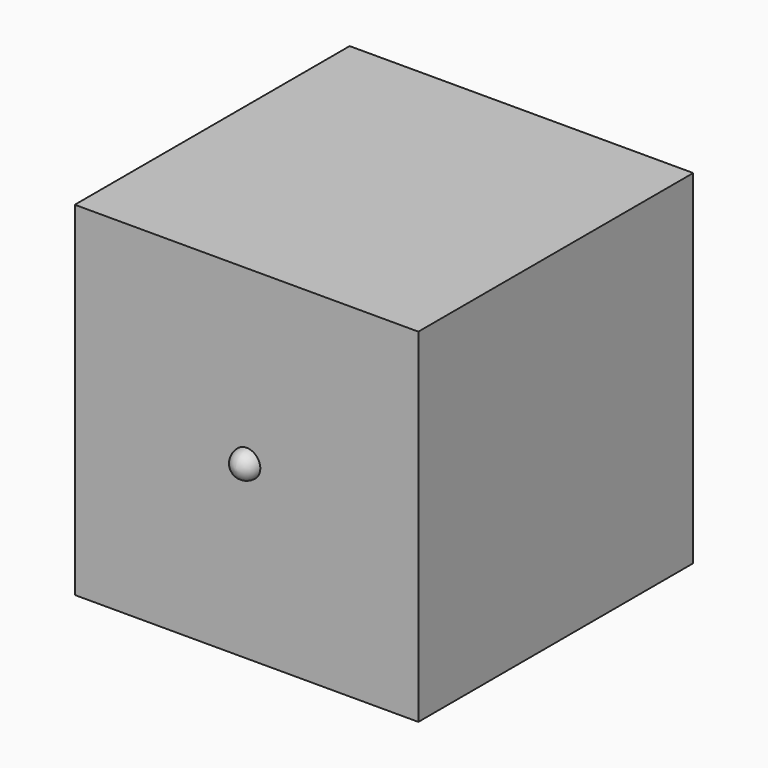
from build123d import *

# Parameters (mm, degrees)
F2_W     = 12.7
F2_H     = 12.7
F2_R     = 0.508
F3_DEPTH = 12.7


with BuildPart() as f1:
    # F0 (on Right) → F1 (revolve)
    with BuildSketch(Plane.YZ):
        with BuildLine():
            Line((-0.508, 0), (0, 0))
            Line((0, 0), (0, 0.508))
            ThreePointArc((0, 0.508), (-0.360654, 0.360654), (-0.508, 0))
        make_face()
    revolve(axis=Axis((0, -0.254, 0), (0, -1, 0)))


with BuildPart() as f3:
    # F2 (on face) → F3 (new body)
    with BuildSketch(Plane(origin=(0, 0, 0), x_dir=(-1, 0, 0), z_dir=(0, 1, 0))):
        Rectangle(F2_W, F2_H)
        Circle(F2_R, mode=Mode.SUBTRACT)
    extrude(amount=F3_DEPTH)


solid = Compound([f1.part, f3.part])
